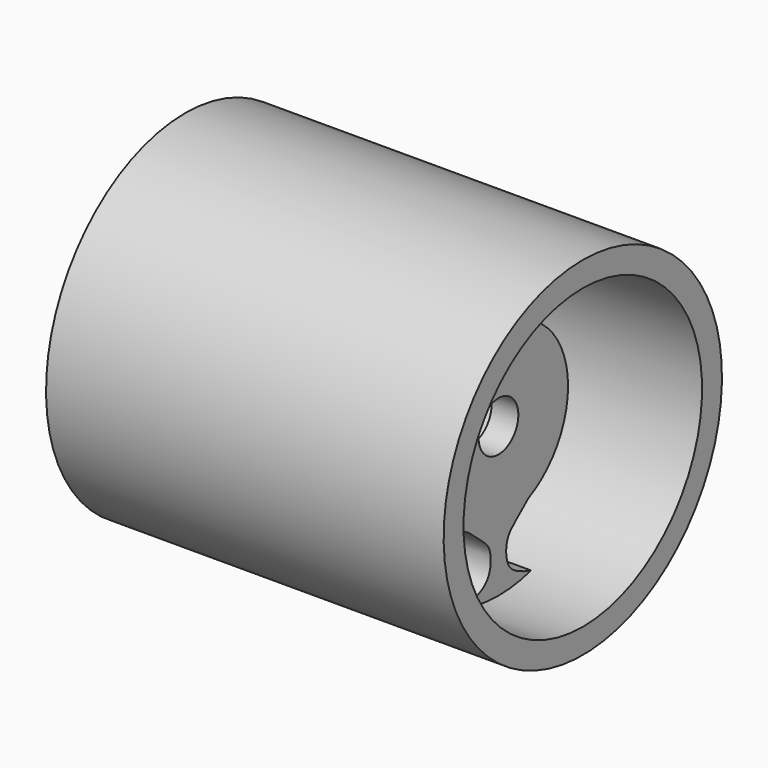
from build123d import *

# Parameters (mm, degrees)
F0_W     = 101.6
F0_H     = 6.35
F2_R     = 6.35
F3_DEPTH = 6.858


with BuildPart() as f1:
    # F0 (on Front) → F1 (revolve)
    with BuildSketch(Plane.XZ):
        with Locations((-29.2498211854, 41.275)):
            Rectangle(F0_W, F0_H)
    revolve(axis=Axis((-38.313806057, 0, 0), (1, 0, 0)))

    # F2 (on Right) → F3 (join)
    with BuildSketch(Plane.YZ):
        with BuildLine():
            ThreePointArc((-9.515778256, 20.0848348059), (0, 22.225), (9.515778256, 20.0848348059))
            add(Edge.make_bspline(
                [(9.515778256, 20.0848348059), (7.9375755544, 21.3721038869), (5.1880981762, 23.7017194046), (2.1380038573, 26.4724692578), (2.4931630977, 33.1410867844), (6.6198931457, 35.3616419631), (9.1402957069, 36.3368324004), (10.4150989588, 36.6488159929)],
                knots=[0, 0, 0, 0, 0.2200643555, 0.4024249008, 0.6234032719, 0.8154288622, 1, 1, 1, 1], degree=3))
            ThreePointArc((10.4150989588, 36.6488159929), (0, 38.1), (-10.4150989588, 36.6488159929))
            add(Edge.make_bspline(
                [(-9.515778256, 20.0848348059), (-7.9375755544, 21.3721038869), (-5.1880981762, 23.7017194046), (-2.1380038573, 26.4724692578), (-2.4931630977, 33.1410867844), (-6.6198931457, 35.3616419631), (-9.1402957069, 36.3368324004), (-10.4150989588, 36.6488159929)],
                knots=[0, 0, 0, 0, 0.2200643555, 0.4024249008, 0.6234032719, 0.8154288622, 1, 1, 1, 1], degree=3))
        make_face()
        with BuildLine():
            ThreePointArc((9.515778256, -20.0848348059), (18.7808252846, -11.8840744961), (22.225, 0))
            ThreePointArc((22.225, 0), (18.7808252846, 11.8840744961), (9.515778256, 20.0848348059))
            ThreePointArc((9.515778256, 20.0848348059), (0, 22.225), (-9.515778256, 20.0848348059))
            ThreePointArc((-9.515778256, 20.0848348059), (-22.225, 0), (-9.515778256, -20.0848348059))
            ThreePointArc((-9.515778256, -20.0848348059), (0, -22.225), (9.515778256, -20.0848348059))
        make_face()
        Circle(F2_R, mode=Mode.SUBTRACT)
        with BuildLine():
            add(Edge.make_bspline(
                [(9.515778256, -20.0848348059), (7.9375755544, -21.3721038869), (5.1880981762, -23.7017194046), (2.1380038573, -26.4724692578), (2.4931630977, -33.1410867844), (6.6198931457, -35.3616419631), (9.1402957069, -36.3368324004), (10.4150989588, -36.6488159929)],
                knots=[0, 0, 0, 0, 0.2200643555, 0.4024249008, 0.6234032719, 0.8154288622, 1, 1, 1, 1], degree=3))
            ThreePointArc((9.515778256, -20.0848348059), (0, -22.225), (-9.515778256, -20.0848348059))
            add(Edge.make_bspline(
                [(-9.515778256, -20.0848348059), (-7.9375755544, -21.3721038869), (-5.1880981762, -23.7017194046), (-2.1380038573, -26.4724692578), (-2.4931630977, -33.1410867844), (-6.6198931457, -35.3616419631), (-9.1402957069, -36.3368324004), (-10.4150989588, -36.6488159929)],
                knots=[0, 0, 0, 0, 0.2200643555, 0.4024249008, 0.6234032719, 0.8154288622, 1, 1, 1, 1], degree=3))
            ThreePointArc((-10.4150989588, -36.6488159929), (0, -38.1), (10.4150989588, -36.6488159929))
        make_face()
    extrude(amount=-F3_DEPTH)


solid = f1.part
